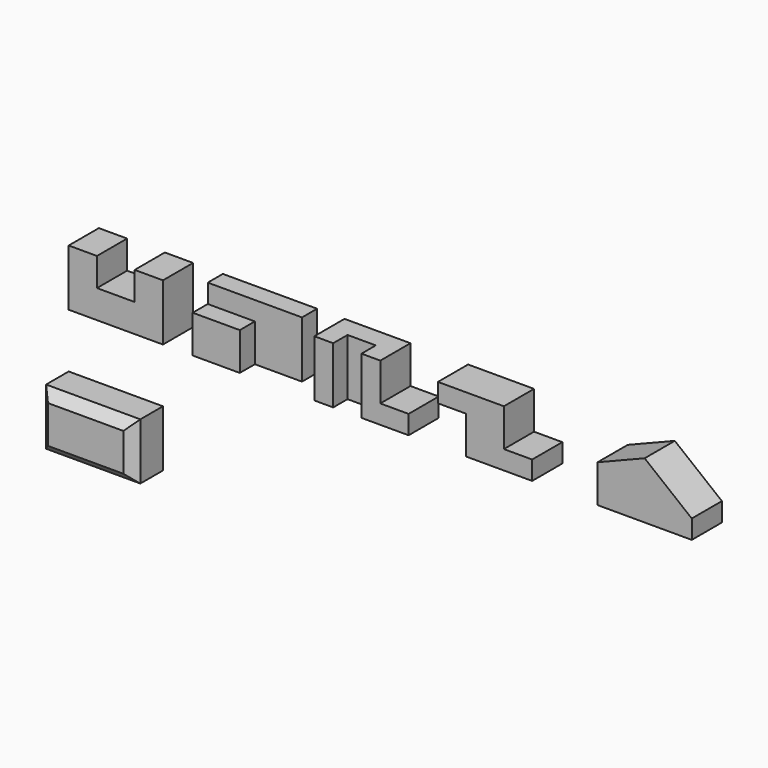
from build123d import *

# Parameters (mm, degrees)
F1_DEPTH  = 101.6
F2_W      = 254
F2_H      = 152.4
F3_DEPTH  = 101.6
F5_DEPTH  = 50.8
F6_W      = 50.8
F6_H      = 152.4
F6_W_2    = 76.2
F7_DEPTH  = 101.6
F8_W      = 76.2
F8_H      = 152.4
F9_DEPTH  = 48.26
F11_DEPTH = 101.6
F13_DEPTH = 101.6
F14_W     = 254
F14_H     = 152.4
F15_DEPTH = 101.6
F16_SIZE  = 25.4
F17_SIZE  = 25.4
F18_SIZE  = 25.4
F19_SIZE  = 25.4


with BuildPart() as f1:
    # F0 (on Front) → F1 (new body)
    with BuildSketch(Plane.XZ):
        Polygon((0, 152.4), (0, 0), (254, 0), (254, 152.4), (177.8, 152.4), (177.8, 76.2), (76.2, 76.2), (76.2, 152.4), align=None)
    extrude(amount=-F1_DEPTH)


with BuildPart() as f3:
    # F2 (on Front) → F3 (new body)
    with BuildSketch(Plane.XZ):
        with Locations((461.133139, 76.2)):
            Rectangle(F2_W, F2_H)
    extrude(amount=-F3_DEPTH)

    # F4 (on face) → F5 (cut)
    with BuildSketch(Plane.XZ):
        Polygon((588.133139, 152.4), (334.133139, 152.4), (334.133139, 101.6), (461.133139, 101.6), (461.133139, 0), (588.133139, 0), align=None)
    extrude(amount=-F5_DEPTH, mode=Mode.SUBTRACT)


with BuildPart() as f7:
    # F6 (on Front) → F7 (new body)
    with BuildSketch(Plane.XZ):
        with Locations((687.436573, 76.2)):
            Rectangle(F6_W, F6_H)
        with Locations((750.936573, 76.2)):
            Rectangle(F6_W_2, F6_H)
        Polygon((789.036573, 152.4), (789.036573, 0), (916.036573, 0), (916.036573, 50.8), (839.836573, 50.8), (839.836573, 152.4), align=None)
    extrude(amount=-F7_DEPTH)

    # F8 (on face) → F9 (cut)
    with BuildSketch(Plane.XZ):
        with Locations((750.936573, 76.2)):
            Rectangle(F8_W, F8_H)
    extrude(amount=-F9_DEPTH, mode=Mode.SUBTRACT)


with BuildPart() as f11:
    # F10 (on Front) → F11 (new body)
    with BuildSketch(Plane.XZ):
        Polygon((1071.269111, 101.6), (1071.269111, 0), (1249.069111, 0), (1249.069111, 50.8), (1172.869111, 50.8), (1172.869111, 152.4), (995.069111, 152.4), (995.069111, 101.6), align=None)
    extrude(amount=-F11_DEPTH)


with BuildPart() as f13:
    # F12 (on Front) → F13 (new body)
    with BuildSketch(Plane.XZ):
        Polygon((1425.220926, 101.6), (1425.220926, 0), (1679.220926, 0), (1679.220926, 50.8), (1552.220926, 152.4), align=None)
    extrude(amount=-F13_DEPTH)


with BuildPart() as f15:
    # F14 (on Front) → F15 (new body)
    with BuildSketch(Plane.XZ):
        with Locations((127, -222.656779)):
            Rectangle(F14_W, F14_H)
    extrude(amount=F15_DEPTH)

    # F16
    f16_edges = [f15.edges().sort_by_distance(p)[0] for p in [
        (254, -101.6, -222.656779),
    ]]
    chamfer(f16_edges, length=F16_SIZE)

    # F17
    f17_edges = [f15.edges().sort_by_distance(p)[0] for p in [
        (0, -101.6, -222.656779),
    ]]
    chamfer(f17_edges, length=F17_SIZE)

    # F18
    f18_edges = [f15.edges().sort_by_distance(p)[0] for p in [
        (127, -101.6, -146.456779),
    ]]
    chamfer(f18_edges, length=F18_SIZE)

    # F19
    f19_edges = [f15.edges().sort_by_distance(p)[0] for p in [
        (127, -101.6, -298.856779),
    ]]
    chamfer(f19_edges, length=F19_SIZE)


solid = Compound([f1.part, f3.part, f7.part, f11.part, f13.part, f15.part])
